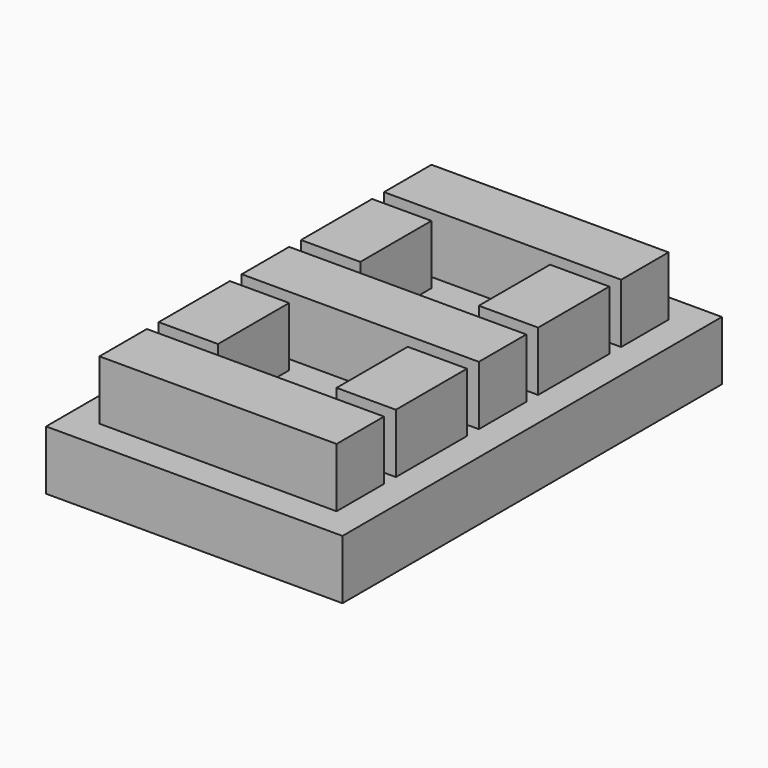
from build123d import *

# Parameters (mm, degrees)
F0_W     = 10
F0_H     = 16
F1_DEPTH = 2
F2_W     = 8
F2_H     = 2
F2_W_2   = 2
F2_H_2   = 3
F3_DEPTH = 2


with BuildPart() as f1:
    # F0 (on Top) → F1 (new body)
    with BuildSketch(Plane.XY):
        Rectangle(F0_W, F0_H)
    extrude(amount=F1_DEPTH)

    # F2 (on face) → F3 (join)
    with BuildSketch(Plane.XY.offset(2)):
        Rectangle(F2_W, F2_H)
        with Locations((0, -6)):
            Rectangle(F2_W, F2_H)
        with Locations((-3, 3)):
            Rectangle(F2_W_2, F2_H_2)
        with Locations((3, 3)):
            Rectangle(F2_W_2, F2_H_2)
        with Locations((-3, -3)):
            Rectangle(F2_W_2, F2_H_2)
        with Locations((3, -3)):
            Rectangle(F2_W_2, F2_H_2)
        with Locations((0, 6)):
            Rectangle(F2_W, F2_H)
    extrude(amount=F3_DEPTH)


solid = f1.part
